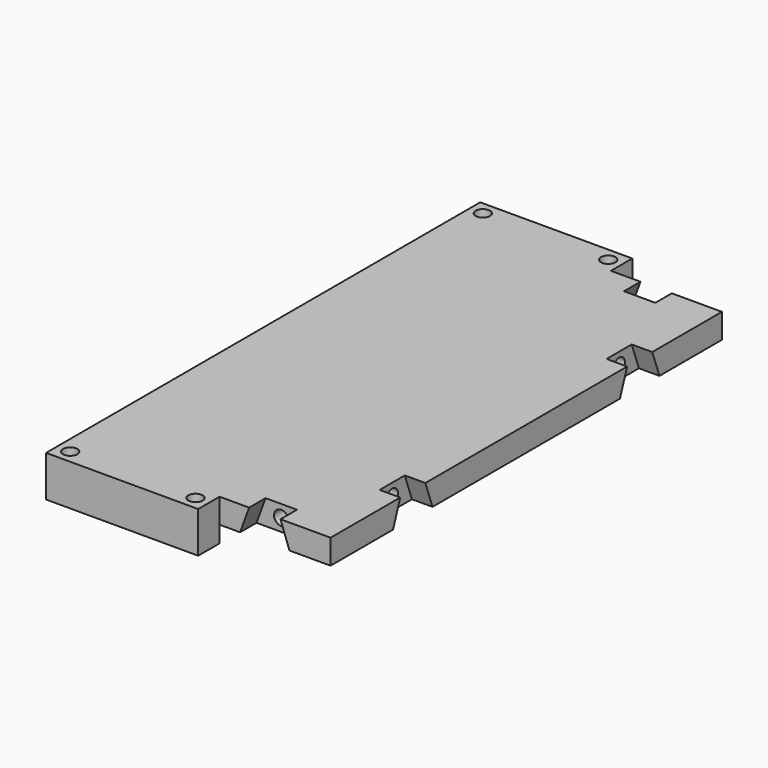
from build123d import *

# Parameters (mm, degrees)
SKETCH050_W      = 37
SKETCH050_H      = 132
PAD_DEPTH        = 6
PAD_DEPTH_BACK   = 4
SKETCH051_W      = 37
SKETCH051_H      = 119
POCKET006_DEPTH  = 4
HOLE_D           = 2.4
HOLE_DEPTH       = 25
HOLE_CBORE_D     = 3.5
HOLE_CBORE_DEPTH = 2.1
BINDER020_W      = 119
BINDER020_H      = 64
PAD012_DEPTH     = 6
SKETCH_R         = 1.75
POCKET_DEPTH     = 9
POCKET001_DEPTH  = 5
POCKET002_DEPTH  = 5
SKETCH046_R      = 1.75
POCKET003_DEPTH  = 4
POCKET004_DEPTH  = 5
SKETCH048_R      = 1.75
POCKET005_DEPTH  = 4


with BuildPart() as obj1:
    # Sketch050 (on Face1 of Binder) → Pad (new body, two sides)
    with BuildSketch(Plane.XY) as pad_sk:
        with Locations((-13.5, 0)):
            Rectangle(SKETCH050_W, SKETCH050_H)
    extrude(amount=PAD_DEPTH)
    extrude(pad_sk.sketch, amount=-PAD_DEPTH_BACK)

    # Sketch051 (on Face5 of Pad) → Pocket006 (cut)
    with BuildSketch(Plane(origin=(0, 0, -4), x_dir=(1, 0, 0), z_dir=(0, 0, -1))):
        with Locations((-13.5, 0)):
            Rectangle(SKETCH051_W, SKETCH051_H)
    extrude(amount=-POCKET006_DEPTH, mode=Mode.SUBTRACT)

    # Hole
    with Locations(Plane.XY.offset(6)):
        with Locations((-28.75, 62.75), (1.75, 62.75), (-28.75, -62.75), (1.75, -62.75)):
            CounterBoreHole(HOLE_D / 2, HOLE_CBORE_D / 2, HOLE_CBORE_DEPTH, depth=HOLE_DEPTH)


with BuildPart() as fusion:
    # Binder020 → Pad012 (new body)
    with BuildSketch(Plane(origin=(0, 0, 0), x_dir=(0, 1, 0), z_dir=(0, 0, 1))):
        Rectangle(BINDER020_W, BINDER020_H)
    extrude(amount=PAD012_DEPTH)

    # Sketch (on Face2 of Pad012) → Pocket (cut)
    with BuildSketch(Plane.YZ.offset(32)):
        with Locations((-34.5, 3)):
            Circle(SKETCH_R)
        with Locations((34.5, 3)):
            Circle(SKETCH_R)
    extrude(amount=-POCKET_DEPTH, mode=Mode.SUBTRACT)

    # Sketch044 (on Face3 of Pocket) → Pocket001 (cut)
    with BuildSketch(Plane.YZ.offset(32)):
        Polygon((-40.5, 0), (-38.316179, 6), (-30.683821, 6), (-28.5, 0), align=None)
        Polygon((30.683821, 6), (38.316179, 6), (40.5, 0), (28.5, 0), align=None)
    extrude(amount=-POCKET001_DEPTH, mode=Mode.SUBTRACT)

    # Sketch045 (on Face1 of Pocket001) → Pocket002 (cut)
    with BuildSketch(Plane.XZ.offset(59.5)):
        Polygon((10, 0), (12.183821, 6), (19.816179, 6), (22, 0), align=None)
    extrude(amount=-POCKET002_DEPTH, mode=Mode.SUBTRACT)

    # Sketch046 (on Face18 of Pocket002) → Pocket003 (cut)
    with BuildSketch(Plane.XZ.offset(54.5)):
        with Locations((16, 3)):
            Circle(SKETCH046_R)
    extrude(amount=-POCKET003_DEPTH, mode=Mode.SUBTRACT)

    # Sketch047 (on Face6 of Pocket003) → Pocket004 (cut)
    with BuildSketch(Plane(origin=(0, 59.5, 0), x_dir=(-1, 0, 0), z_dir=(0, 1, 0))):
        Polygon((-22, 0), (-19.816179, 6), (-12.183821, 6), (-10, 0), align=None)
    extrude(amount=-POCKET004_DEPTH, mode=Mode.SUBTRACT)

    # Sketch048 (on Face20 of Pocket004) → Pocket005 (cut)
    with BuildSketch(Plane(origin=(0, 54.5, 0), x_dir=(-1, 0, 0), z_dir=(0, 1, 0))):
        with Locations((-16, 3)):
            Circle(SKETCH048_R)
    extrude(amount=-POCKET005_DEPTH, mode=Mode.SUBTRACT)

    # Fusion: union obj1
    add(obj1.part)


solid = fusion.part
